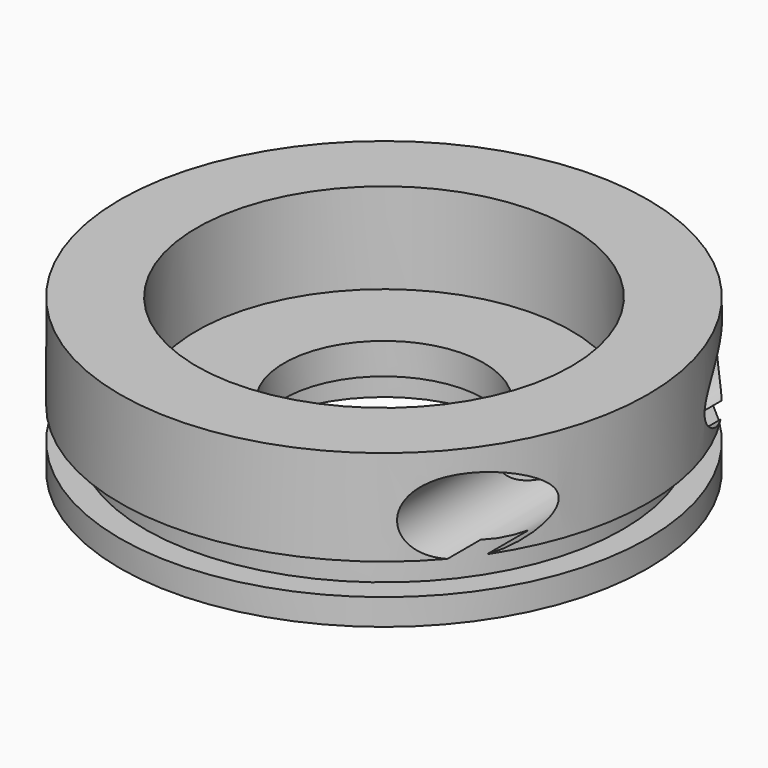
from build123d import *

# Parameters (mm, degrees)
F2_R     = 6
F3_DEPTH = 50


with BuildPart() as f1:
    # F0 (on Front) → F1 (revolve)
    with BuildSketch(Plane.XZ):
        Polygon((20, 5), (20, 0), (42.25, 0), (42.25, 4.2), (38.25, 4.2), (38.25, 9.2), (42.25, 9.2), (42.25, 24.5), (30, 24.5), (30, 10), (16, 10), (16, 5), align=None)
    revolve(axis=Axis((0, 0, 1.3315217948), (0, 0, -1)))


with BuildPart() as f3:
    # F2 (on Front) → F3 (new body, symmetric)
    with BuildSketch(Plane.XZ):
        with Locations((33.65, 15)):
            Circle(F2_R)
    extrude(amount=F3_DEPTH, both=True)


with BuildPart() as f1_1:
    add(f1.part)

    # F4: cut F3
    add(f3.part, mode=Mode.SUBTRACT)


solid = f1_1.part
